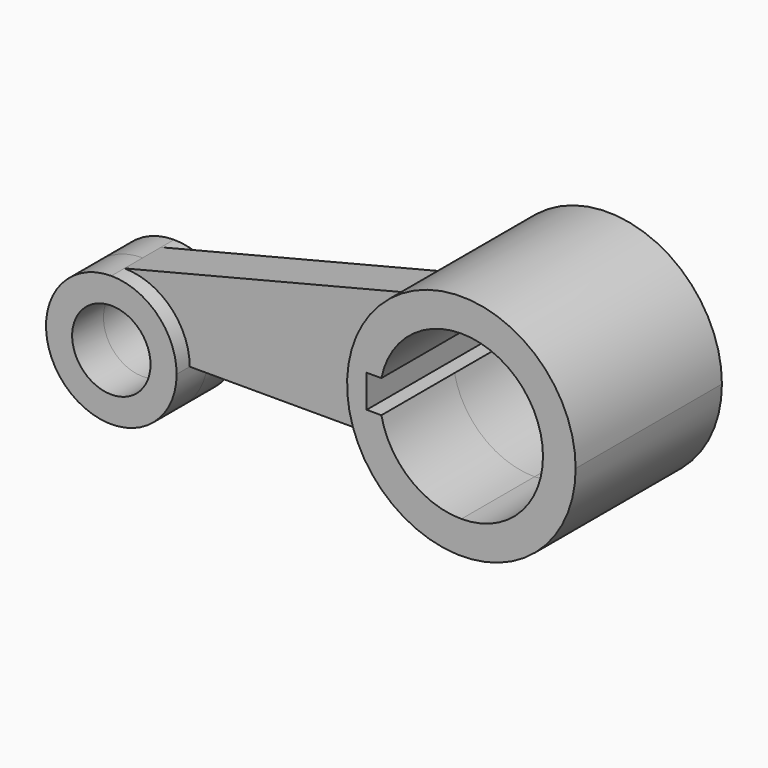
from build123d import *

# Parameters (mm, degrees)
F1_DEPTH      = 7
F1_DEPTH_BACK = 7
F0_R          = 12
F2_DEPTH      = 12
F2_DEPTH_BACK = 12
F3_DEPTH      = 28
F3_DEPTH_BACK = 28
F5_DEPTH      = 57.4
F5_DEPTH_BACK = 40.2
F6_DEPTH      = 102.2
F6_DEPTH_BACK = 32.7


with BuildPart() as f1:
    # F0 (on Front) → F1 (new body, two sides)
    with BuildSketch(Plane.XZ) as f1_sk:
        with BuildLine():
            ThreePointArc((-62.5426396728, -0.7066852599), (-48.400504049, -6.5645496362), (-42.5426396728, -20.7066852599))
            Line((-42.5426396728, -20.7066852599), (32.9624628994, -20.7066852599))
            ThreePointArc((32.9624628994, -20.7066852599), (22.7876905063, -0.5039755893), (27.0942402723, 21.7025347263))
            Line((27.0942402723, 21.7025347263), (-62.5426396728, -0.7066852599))
        make_face()
    extrude(amount=F1_DEPTH)
    extrude(f1_sk.sketch, amount=-F1_DEPTH_BACK)

    # F0 (on Front) → F2 (join, two sides)
    with BuildSketch(Plane.XZ) as f2_sk:
        with BuildLine():
            ThreePointArc((-62.5426396728, -0.7066852599), (-76.6847752965, -34.8488208837), (-42.5426396728, -20.7066852599))
            ThreePointArc((-42.5426396728, -20.7066852599), (-48.400504049, -6.5645496362), (-62.5426396728, -0.7066852599))
        make_face()
        with Locations((-62.5426396728, -20.7066852599)):
            Circle(F0_R, mode=Mode.SUBTRACT)
    extrude(amount=F2_DEPTH)
    extrude(f2_sk.sketch, amount=-F2_DEPTH_BACK)

    # F0 (on Front) → F3 (join, two sides)
    with BuildSketch(Plane.XZ) as f3_sk:
        with BuildLine():
            ThreePointArc((27.0942402723, 21.7025347263), (22.7876905063, -0.5039755893), (32.9624628994, -20.7066852599))
            ThreePointArc((32.9624628994, -20.7066852599), (71.0160953351, -27.9737072017), (92.4573603272, 4.2933147401))
            ThreePointArc((92.4573603272, 4.2933147401), (66.4654344299, 38.114234316), (27.0942402723, 21.7025347263))
        make_face()
        with BuildLine():
            ThreePointArc((57.4573603272, 29.2933147401), (75.1350298569, 21.9709842697), (82.4573603272, 4.2933147401))
            ThreePointArc((82.4573603272, 4.2933147401), (75.1350298569, -13.3843547896), (57.4573603272, -20.7066852599))
            ThreePointArc((57.4573603272, -20.7066852599), (39.7796907976, -13.3843547896), (32.4573603272, 4.2933147401))
            ThreePointArc((32.4573603272, 4.2933147401), (39.7796907976, 21.9709842697), (57.4573603272, 29.2933147401))
        make_face(mode=Mode.SUBTRACT)
    extrude(amount=F3_DEPTH)
    extrude(f3_sk.sketch, amount=-F3_DEPTH_BACK)

    # F4 (on face) → F5 (cut, two sides)
    with BuildSketch(Plane.XZ) as f5_sk:
        with BuildLine():
            ThreePointArc((32.9624628994, -0.7066852599), (32.5839565021, 1.7805906899), (32.4573603272, 4.2933147401))
            Line((32.4573603272, 4.2933147401), (28.4573603272, 4.2933147401))
            Line((28.4573603272, 4.2933147401), (28.4573603272, -0.7066852599))
            Line((28.4573603272, -0.7066852599), (32.9624628994, -0.7066852599))
        make_face()
    extrude(amount=-F5_DEPTH, mode=Mode.SUBTRACT)
    extrude(f5_sk.sketch, amount=F5_DEPTH_BACK, mode=Mode.SUBTRACT)

    # F4 (on face) → F6 (cut, two sides)
    with BuildSketch(Plane.XZ) as f6_sk:
        with BuildLine():
            Line((28.4573603272, 4.2933147401), (32.4573603272, 4.2933147401))
            ThreePointArc((32.4573603272, 4.2933147401), (32.5839565021, 6.8060387902), (32.9624628994, 9.2933147401))
            Line((32.9624628994, 9.2933147401), (32.4573603272, 9.2933147401))
            Line((32.4573603272, 9.2933147401), (28.4573603272, 9.2933147401))
            Line((28.4573603272, 9.2933147401), (28.4573603272, 4.2933147401))
        make_face()
    extrude(amount=-F6_DEPTH, mode=Mode.SUBTRACT)
    extrude(f6_sk.sketch, amount=F6_DEPTH_BACK, mode=Mode.SUBTRACT)


solid = f1.part
